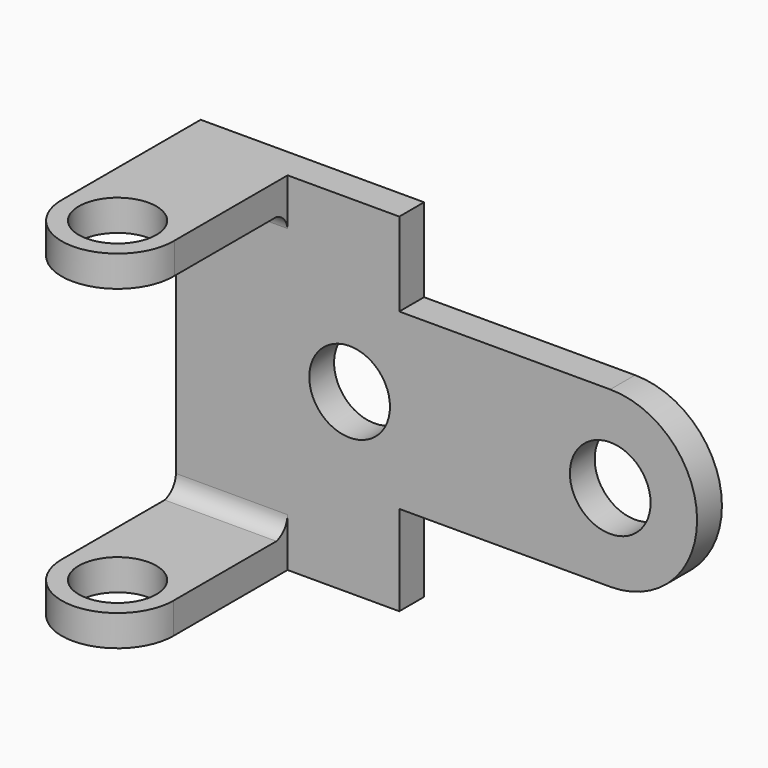
from build123d import *

# Parameters (mm, degrees)
F0_W      = 57.15
F0_H      = 88.9
F1_DEPTH  = 3.96875
F3_DEPTH  = 7.9375
F5_DEPTH  = 7.9375
F7_DEPTH  = 28.575
F8_R      = 9.92251
F9_DEPTH  = 25.4
F10_R     = 9.92251
F11_DEPTH = 25.4
F13_DEPTH = 7.9375
F14_R     = 10.3251
F15_DEPTH = 25.4
F16_DEPTH = 25.4
F18_DEPTH = 7.9375


with BuildPart() as f1:
    # F0 (on Front) → F1 (new body, symmetric)
    with BuildSketch(Plane.XZ):
        with Locations((28.575, 44.45)):
            Rectangle(F0_W, F0_H)
    extrude(amount=F1_DEPTH, both=True)

    # F2 (on face) → F3 (join)
    with BuildSketch(Plane(origin=(0, 0, 0), x_dir=(1, 0, 0), z_dir=(0, 0, -1))):
        with BuildLine():
            Line((0, 40.48125), (0, -3.96875))
            Line((0, -3.96875), (28.575, -3.96875))
            Line((28.575, -3.96875), (28.575, 40.48125))
            ThreePointArc((28.575, 40.48125), (14.2875, 54.76875), (0, 40.48125))
        make_face()
    extrude(amount=-F3_DEPTH)

    # F4 (on face) → F5 (join)
    with BuildSketch(Plane.XY.offset(88.9)):
        with BuildLine():
            Line((28.575, -40.160799), (28.575, 3.96875))
            Line((28.575, 3.96875), (0, 3.96875))
            Line((0, 3.96875), (0, -40.160799))
            ThreePointArc((0, -40.160799), (14.2875, -54.772343), (28.575, -40.160799))
        make_face()
    extrude(amount=-F5_DEPTH)

    # F6 (on face) → F7 (join)
    with BuildSketch(Plane(origin=(0, 0, 0), x_dir=(0, -1, 0), z_dir=(-1, 0, 0))):
        with BuildLine():
            Line((7.685762, 80.9625), (9.703519, 80.9625))
            ThreePointArc((9.703519, 80.9625), (8.694641, 81.070586), (7.685762, 80.9625))
        make_face()
        with BuildLine():
            ThreePointArc((3.96875, 76.897462), (5.179953, 79.521865), (7.685762, 80.9625))
            Line((7.685762, 80.9625), (3.96875, 80.9625))
            Line((3.96875, 80.9625), (3.96875, 76.897462))
        make_face()
        with BuildLine():
            Line((9.921576, 7.9375), (7.539107, 7.9375))
            ThreePointArc((7.539107, 7.9375), (8.730341, 7.786113), (9.921576, 7.9375))
        make_face()
        with BuildLine():
            ThreePointArc((7.539107, 7.9375), (4.993725, 9.595801), (3.96875, 12.455584))
            Line((3.96875, 12.455584), (3.96875, 7.9375))
            Line((3.96875, 7.9375), (7.539107, 7.9375))
        make_face()
    extrude(amount=-F7_DEPTH)

    # F8 (on face) → F9 (cut)
    with BuildSketch(Plane(origin=(0, 0, 0), x_dir=(1, 0, 0), z_dir=(0, 0, -1))):
        with Locations((14.2875, 40.48125)):
            Circle(F8_R)
    extrude(amount=-F9_DEPTH, mode=Mode.SUBTRACT)

    # F10 (on face) → F11 (cut)
    with BuildSketch(Plane.XY.offset(88.9)):
        with Locations((14.2875, -40.48125)):
            Circle(F10_R)
    extrude(amount=-F11_DEPTH, mode=Mode.SUBTRACT)

    # F12 (on face) → F13 (join)
    with BuildSketch(Plane(origin=(0, 3.96875, 0), x_dir=(-1, 0, 0), z_dir=(0, 1, 0))):
        with BuildLine():
            Line((-57.15, 67.517356), (-111.125, 67.517356))
            ThreePointArc((-111.125, 67.517356), (-133.35, 45.292356), (-111.125, 23.067356))
            Line((-111.125, 23.067356), (-57.15, 23.067356))
            Line((-57.15, 23.067356), (-57.15, 67.517356))
        make_face()
    extrude(amount=-F13_DEPTH)

    # F14 (on face) → F15 (cut)
    with BuildSketch(Plane.XZ.offset(3.96875)):
        with Locations((111.125, 45.292356)):
            Circle(F14_R)
        with Locations((44.45, 45.292356)):
            Circle(F14_R)
    extrude(amount=-F15_DEPTH, mode=Mode.SUBTRACT)

    # F14 (on face) → F16 (cut)
    with BuildSketch(Plane.XZ.offset(3.96875)):
        with Locations((111.125, 45.292356)):
            Circle(F14_R)
        with Locations((44.45, 45.292356)):
            Circle(F14_R)
    extrude(amount=-F16_DEPTH, mode=Mode.SUBTRACT)

    # F17 (on face) → F18 (join)
    with BuildSketch(Plane.XZ.offset(3.96875)):
        with BuildLine():
            Line((57.15, 67.517356), (57.15, 78.208678))
            ThreePointArc((57.15, 78.208678), (47.687893, 76.672868), (50.528099, 67.517356))
            Line((50.528099, 67.517356), (57.15, 67.517356))
        make_face()
        with BuildLine():
            Line((57.15, 23.067356), (51.937071, 23.067356))
            ThreePointArc((51.937071, 23.067356), (48.281511, 14.470241), (57.15, 11.533678))
            Line((57.15, 11.533678), (57.15, 23.067356))
        make_face()
    extrude(amount=-F18_DEPTH)


solid = f1.part
